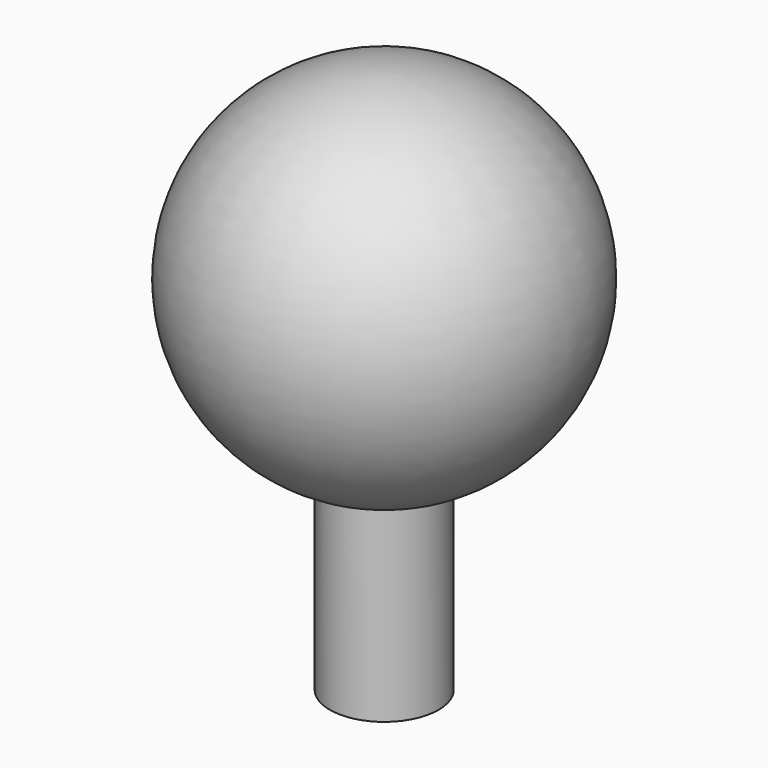
from build123d import *


with BuildPart() as f1:
    # F0 (on Front) → F1 (revolve)
    with BuildSketch(Plane.XZ):
        with BuildLine():
            Line((1.5, -10), (1.5, -4.769696))
            ThreePointArc((1.5, -4.769696), (4.942089, 0.758788), (0, 5))
            Line((0, 5), (0, -10))
            Line((0, -10), (1.5, -10))
        make_face()
    revolve(axis=Axis((0, 0, -2.5), (0, 0, -1)))


solid = f1.part
